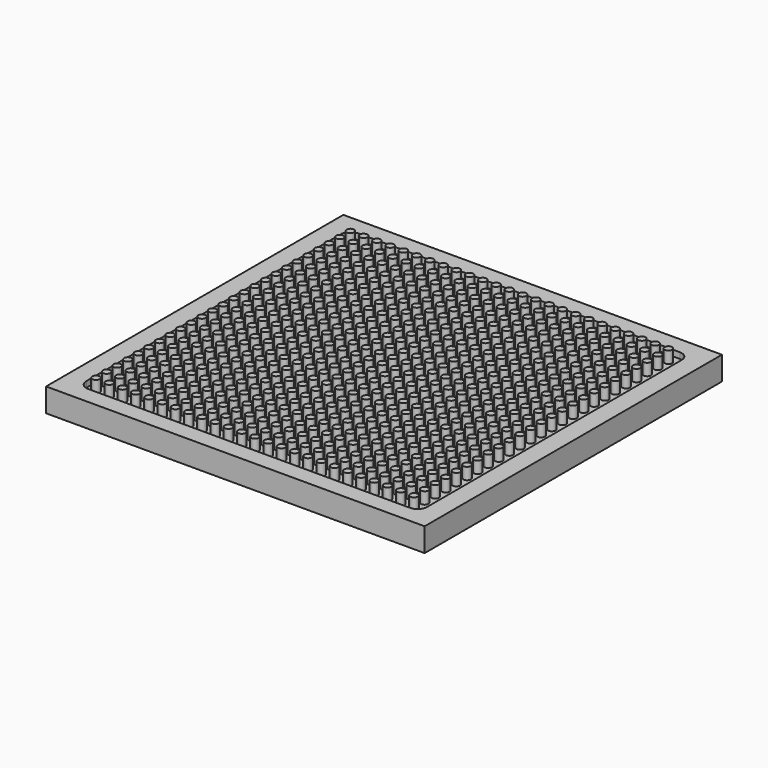
from build123d import *

# Parameters (mm, degrees)
F0_W     = 101.6
F0_H     = 99.727188
F1_DEPTH = 6.35
F3_DEPTH = 1.5875
F4_R     = 1
F5_DEPTH = 3.175


with BuildPart() as f1:
    # F0 (on Top) → F1 (new body)
    with BuildSketch(Plane.XY):
        Rectangle(F0_W, F0_H)
    extrude(amount=F1_DEPTH)

    # F2 (on face) → F3 (cut)
    with BuildSketch(Plane.XY.offset(6.35)):
        with BuildLine():
            ThreePointArc((45.72, 42.706217), (44.976051, 44.502269), (43.18, 45.246217))
            Line((43.18, 45.246217), (-43.18, 45.246217))
            ThreePointArc((-43.18, 45.246217), (-44.976051, 44.502269), (-45.72, 42.706217))
            Line((-45.72, 42.706217), (-45.72, -42.706217))
            ThreePointArc((-45.72, -42.706217), (-44.976051, -44.502269), (-43.18, -45.246217))
            Line((-43.18, -45.246217), (43.18, -45.246217))
            ThreePointArc((43.18, -45.246217), (44.976051, -44.502269), (45.72, -42.706217))
            Line((45.72, -42.706217), (45.72, 42.706217))
        make_face()
    extrude(amount=-F3_DEPTH, mode=Mode.SUBTRACT)

    # F4 (on face) → F5 (join)
    with BuildSketch(Plane.XY.offset(4.7625)):
        with Locations((-43.18, 42.706217)):
            Circle(F4_R)
        with Locations((3.048, 7.146217)):
            Circle(F4_R)
        with Locations((10.16, -42.637783)):
            Circle(F4_R)
        with Locations((17.272, -35.525783)):
            Circle(F4_R)
        with Locations((24.384, -28.413783)):
            Circle(F4_R)
        with Locations((3.048, -42.637783)):
            Circle(F4_R)
        with Locations((10.16, -35.525783)):
            Circle(F4_R)
        with Locations((17.272, -28.413783)):
            Circle(F4_R)
        with Locations((24.384, -21.301783)):
            Circle(F4_R)
        with Locations((42.164, 24.926217)):
            Circle(F4_R)
        with Locations((-36.068, 0.034217)):
            Circle(F4_R)
        with Locations((-28.956, 7.146217)):
            Circle(F4_R)
        with Locations((-14.732, -35.525783)):
            Circle(F4_R)
        with Locations((-21.844, -42.637783)):
            Circle(F4_R)
        with Locations((17.272, 24.926217)):
            Circle(F4_R)
        with Locations((24.384, 32.038217)):
            Circle(F4_R)
        with Locations((35.052, -42.637783)):
            Circle(F4_R)
        with Locations((42.164, -35.525783)):
            Circle(F4_R)
        with Locations((42.164, -42.637783)):
            Circle(F4_R)
        with Locations((-43.18, -14.189783)):
            Circle(F4_R)
        with Locations((-36.068, -7.077783)):
            Circle(F4_R)
        with Locations((-28.956, 0.034217)):
            Circle(F4_R)
        with Locations((-14.732, -42.637783)):
            Circle(F4_R)
        with Locations((24.384, -35.525783)):
            Circle(F4_R)
        with Locations((-4.064, -7.077783)):
            Circle(F4_R)
        with Locations((10.16, 7.146217)):
            Circle(F4_R)
        with Locations((17.272, -42.637783)):
            Circle(F4_R)
        with Locations((-43.18, -21.301783)):
            Circle(F4_R)
        with Locations((-36.068, -14.189783)):
            Circle(F4_R)
        with Locations((-21.844, 0.034217)):
            Circle(F4_R)
        with Locations((-28.956, -7.077783)):
            Circle(F4_R)
        with Locations((-36.068, 39.150217)):
            Circle(F4_R)
        with Locations((-4.064, -14.189783)):
            Circle(F4_R)
        with Locations((3.048, -7.077783)):
            Circle(F4_R)
        with Locations((10.16, 0.034217)):
            Circle(F4_R)
        with Locations((17.272, 7.146217)):
            Circle(F4_R)
        with Locations((24.384, -42.637783)):
            Circle(F4_R)
        with Locations((-43.18, -28.413783)):
            Circle(F4_R)
        with Locations((-36.068, -21.301783)):
            Circle(F4_R)
        with Locations((-21.844, -7.077783)):
            Circle(F4_R)
        with Locations((-28.956, -14.189783)):
            Circle(F4_R)
        with Locations((-4.064, 39.150217)):
            Circle(F4_R)
        with Locations((42.164, 0.034217)):
            Circle(F4_R)
        with Locations((-28.956, 39.150217)):
            Circle(F4_R)
        with Locations((-36.068, 32.038217)):
            Circle(F4_R)
        with Locations((-4.064, -21.301783)):
            Circle(F4_R)
        with Locations((3.048, -14.189783)):
            Circle(F4_R)
        with Locations((10.16, -7.077783)):
            Circle(F4_R)
        with Locations((17.272, 0.034217)):
            Circle(F4_R)
        with Locations((-36.068, -28.413783)):
            Circle(F4_R)
        with Locations((-43.18, -35.525783)):
            Circle(F4_R)
        with Locations((-28.956, -21.301783)):
            Circle(F4_R)
        with Locations((-21.844, -14.189783)):
            Circle(F4_R)
        with Locations((-14.732, -7.077783)):
            Circle(F4_R)
        with Locations((3.048, 39.150217)):
            Circle(F4_R)
        with Locations((-4.064, 32.038217)):
            Circle(F4_R)
        with Locations((42.164, -7.077783)):
            Circle(F4_R)
        with Locations((35.052, -14.189783)):
            Circle(F4_R)
        with Locations((-36.068, 24.926217)):
            Circle(F4_R)
        with Locations((-28.956, 32.038217)):
            Circle(F4_R)
        with Locations((-21.844, 39.150217)):
            Circle(F4_R)
        with Locations((-4.064, -28.413783)):
            Circle(F4_R)
        with Locations((10.16, -14.189783)):
            Circle(F4_R)
        with Locations((3.048, -21.301783)):
            Circle(F4_R)
        with Locations((24.384, 0.034217)):
            Circle(F4_R)
        with Locations((17.272, -7.077783)):
            Circle(F4_R)
        with Locations((-28.956, -28.413783)):
            Circle(F4_R)
        with Locations((-21.844, -21.301783)):
            Circle(F4_R)
        with Locations((-14.732, -14.189783)):
            Circle(F4_R)
        with Locations((3.048, 32.038217)):
            Circle(F4_R)
        with Locations((10.16, 39.150217)):
            Circle(F4_R)
        with Locations((-36.068, -35.525783)):
            Circle(F4_R)
        with Locations((-43.18, -42.637783)):
            Circle(F4_R)
        with Locations((42.164, -14.189783)):
            Circle(F4_R)
        with Locations((35.052, -21.301783)):
            Circle(F4_R)
        with Locations((-14.732, 39.150217)):
            Circle(F4_R)
        with Locations((-21.844, 32.038217)):
            Circle(F4_R)
        with Locations((-4.064, -35.525783)):
            Circle(F4_R)
        with Locations((10.16, -21.301783)):
            Circle(F4_R)
        with Locations((3.048, -28.413783)):
            Circle(F4_R)
        with Locations((24.384, -7.077783)):
            Circle(F4_R)
        with Locations((17.272, -14.189783)):
            Circle(F4_R)
        with Locations((-28.956, 24.926217)):
            Circle(F4_R)
        with Locations((42.164, 39.150217)):
            Circle(F4_R)
        with Locations((-14.732, -21.301783)):
            Circle(F4_R)
        with Locations((3.048, 24.926217)):
            Circle(F4_R)
        with Locations((10.16, 32.038217)):
            Circle(F4_R)
        with Locations((17.272, 39.150217)):
            Circle(F4_R)
        with Locations((42.164, -21.301783)):
            Circle(F4_R)
        with Locations((35.052, -28.413783)):
            Circle(F4_R)
        with Locations((-36.068, -42.637783)):
            Circle(F4_R)
        with Locations((-28.956, -35.525783)):
            Circle(F4_R)
        with Locations((-21.844, -28.413783)):
            Circle(F4_R)
        with Locations((-4.064, -42.637783)):
            Circle(F4_R)
        with Locations((10.16, -28.413783)):
            Circle(F4_R)
        with Locations((3.048, -35.525783)):
            Circle(F4_R)
        with Locations((24.384, -14.189783)):
            Circle(F4_R)
        with Locations((17.272, -21.301783)):
            Circle(F4_R)
        with Locations((42.164, 32.038217)):
            Circle(F4_R)
        with Locations((-21.844, 24.926217)):
            Circle(F4_R)
        with Locations((10.16, 24.926217)):
            Circle(F4_R)
        with Locations((17.272, 32.038217)):
            Circle(F4_R)
        with Locations((24.384, 39.150217)):
            Circle(F4_R)
        with Locations((42.164, -28.413783)):
            Circle(F4_R)
        with Locations((35.052, -35.525783)):
            Circle(F4_R)
        with Locations((-36.068, 7.146217)):
            Circle(F4_R)
        with Locations((-28.956, -42.637783)):
            Circle(F4_R)
        with Locations((-21.844, -35.525783)):
            Circle(F4_R)
        with Locations((-14.732, -28.413783)):
            Circle(F4_R)
        with Locations((-43.18, -7.077783)):
            Circle(F4_R)
        with Locations((-43.18, 32.038217)):
            Circle(F4_R)
        with Locations((-43.18, 24.926217)):
            Circle(F4_R)
        with Locations((-43.18, 0.034217)):
            Circle(F4_R)
        with Locations((-18.288, 42.706217)):
            Circle(F4_R)
        with Locations((-21.844, 10.702217)):
            Circle(F4_R)
        with Locations((-25.4, -21.301783)):
            Circle(F4_R)
        with Locations((-25.4, 35.594217)):
            Circle(F4_R)
        with Locations((-11.176, -7.077783)):
            Circle(F4_R)
        with Locations((-14.732, -39.081783)):
            Circle(F4_R)
        with Locations((-14.732, 17.814217)):
            Circle(F4_R)
        with Locations((-18.288, -14.189783)):
            Circle(F4_R)
        with Locations((-0.508, 32.038217)):
            Circle(F4_R)
        with Locations((-4.064, 0.034217)):
            Circle(F4_R)
        with Locations((-7.62, -31.969783)):
            Circle(F4_R)
        with Locations((-7.62, 24.926217)):
            Circle(F4_R)
        with Locations((6.604, -17.745783)):
            Circle(F4_R)
        with Locations((6.604, 39.150217)):
            Circle(F4_R)
        with Locations((-0.508, -24.857783)):
            Circle(F4_R)
        with Locations((13.716, -10.633783)):
            Circle(F4_R)
        with Locations((10.16, 14.258217)):
            Circle(F4_R)
        with Locations((20.828, -3.521783)):
            Circle(F4_R)
        with Locations((17.272, 21.370217)):
            Circle(F4_R)
        with Locations((31.496, 35.594217)):
            Circle(F4_R)
        with Locations((27.94, 3.590217)):
            Circle(F4_R)
        with Locations((24.384, 28.482217)):
            Circle(F4_R)
        with Locations((-39.624, -35.525783)):
            Circle(F4_R)
        with Locations((-39.624, 21.370217)):
            Circle(F4_R)
        with Locations((-28.956, 3.590217)):
            Circle(F4_R)
        with Locations((-32.512, -28.413783)):
            Circle(F4_R)
        with Locations((-32.512, 28.482217)):
            Circle(F4_R)
        with Locations((-36.068, -3.521783)):
            Circle(F4_R)
        with Locations((38.608, -14.189783)):
            Circle(F4_R)
        with Locations((38.608, 42.706217)):
            Circle(F4_R)
        with Locations((35.052, 10.702217)):
            Circle(F4_R)
        with Locations((31.496, -21.301783)):
            Circle(F4_R)
        with Locations((42.164, -39.081783)):
            Circle(F4_R)
        with Locations((42.164, 17.814217)):
            Circle(F4_R)
        with Locations((-39.624, 28.482217)):
            Circle(F4_R)
        with Locations((-32.512, -21.301783)):
            Circle(F4_R)
        with Locations((-32.512, 35.594217)):
            Circle(F4_R)
        with Locations((-36.068, 3.590217)):
            Circle(F4_R)
        with Locations((-39.624, -28.413783)):
            Circle(F4_R)
        with Locations((-21.844, 17.814217)):
            Circle(F4_R)
        with Locations((-25.4, -14.189783)):
            Circle(F4_R)
        with Locations((-25.4, 42.706217)):
            Circle(F4_R)
        with Locations((-28.956, 10.702217)):
            Circle(F4_R)
        with Locations((-14.732, -31.969783)):
            Circle(F4_R)
        with Locations((-14.732, 24.926217)):
            Circle(F4_R)
        with Locations((-18.288, -7.077783)):
            Circle(F4_R)
        with Locations((-21.844, -39.081783)):
            Circle(F4_R)
        with Locations((-4.064, 7.146217)):
            Circle(F4_R)
        with Locations((-7.62, -24.857783)):
            Circle(F4_R)
        with Locations((-7.62, 32.038217)):
            Circle(F4_R)
        with Locations((-11.176, 0.034217)):
            Circle(F4_R)
        with Locations((3.048, 14.258217)):
            Circle(F4_R)
        with Locations((-0.508, -17.745783)):
            Circle(F4_R)
        with Locations((-0.508, 39.150217)):
            Circle(F4_R)
        with Locations((13.716, -3.521783)):
            Circle(F4_R)
        with Locations((10.16, 21.370217)):
            Circle(F4_R)
        with Locations((6.604, -10.633783)):
            Circle(F4_R)
        with Locations((17.272, 28.482217)):
            Circle(F4_R)
        with Locations((27.94, 10.702217)):
            Circle(F4_R)
        with Locations((24.384, 35.594217)):
            Circle(F4_R)
        with Locations((20.828, 3.590217)):
            Circle(F4_R)
        with Locations((35.052, -39.081783)):
            Circle(F4_R)
        with Locations((35.052, 17.814217)):
            Circle(F4_R)
        with Locations((31.496, -14.189783)):
            Circle(F4_R)
        with Locations((31.496, 42.706217)):
            Circle(F4_R)
        with Locations((42.164, -31.969783)):
            Circle(F4_R)
        with Locations((38.608, -7.077783)):
            Circle(F4_R)
        with Locations((-39.624, 24.926217)):
            Circle(F4_R)
        with Locations((-32.512, -24.857783)):
            Circle(F4_R)
        with Locations((-32.512, 32.038217)):
            Circle(F4_R)
        with Locations((-39.624, -31.969783)):
            Circle(F4_R)
        with Locations((-21.844, 14.258217)):
            Circle(F4_R)
        with Locations((-25.4, -17.745783)):
            Circle(F4_R)
        with Locations((-25.4, 39.150217)):
            Circle(F4_R)
        with Locations((-14.732, 21.370217)):
            Circle(F4_R)
        with Locations((-18.288, -10.633783)):
            Circle(F4_R)
        with Locations((-4.064, 3.590217)):
            Circle(F4_R)
        with Locations((-7.62, -28.413783)):
            Circle(F4_R)
        with Locations((-7.62, 28.482217)):
            Circle(F4_R)
        with Locations((-11.176, -3.521783)):
            Circle(F4_R)
        with Locations((6.604, 42.706217)):
            Circle(F4_R)
        with Locations((3.048, 10.702217)):
            Circle(F4_R)
        with Locations((-0.508, -21.301783)):
            Circle(F4_R)
        with Locations((-0.508, 35.594217)):
            Circle(F4_R)
        with Locations((13.716, -7.077783)):
            Circle(F4_R)
        with Locations((10.16, -39.081783)):
            Circle(F4_R)
        with Locations((10.16, 17.814217)):
            Circle(F4_R)
        with Locations((6.604, -14.189783)):
            Circle(F4_R)
        with Locations((17.272, -31.969783)):
            Circle(F4_R)
        with Locations((27.94, 7.146217)):
            Circle(F4_R)
        with Locations((24.384, -24.857783)):
            Circle(F4_R)
        with Locations((20.828, 0.034217)):
            Circle(F4_R)
        with Locations((35.052, 14.258217)):
            Circle(F4_R)
        with Locations((31.496, -17.745783)):
            Circle(F4_R)
        with Locations((31.496, 39.150217)):
            Circle(F4_R)
        with Locations((42.164, 21.370217)):
            Circle(F4_R)
        with Locations((38.608, -10.633783)):
            Circle(F4_R)
        with Locations((17.272, -39.081783)):
            Circle(F4_R)
        with Locations((17.272, 17.814217)):
            Circle(F4_R)
        with Locations((13.716, -14.189783)):
            Circle(F4_R)
        with Locations((27.94, 0.034217)):
            Circle(F4_R)
        with Locations((24.384, -31.969783)):
            Circle(F4_R)
        with Locations((24.384, 24.926217)):
            Circle(F4_R)
        with Locations((20.828, -7.077783)):
            Circle(F4_R)
        with Locations((38.608, 39.150217)):
            Circle(F4_R)
        with Locations((35.052, 7.146217)):
            Circle(F4_R)
        with Locations((31.496, -24.857783)):
            Circle(F4_R)
        with Locations((31.496, 32.038217)):
            Circle(F4_R)
        with Locations((42.164, 14.258217)):
            Circle(F4_R)
        with Locations((38.608, -17.745783)):
            Circle(F4_R)
        with Locations((-39.624, 17.814217)):
            Circle(F4_R)
        with Locations((-32.512, -31.969783)):
            Circle(F4_R)
        with Locations((-32.512, 24.926217)):
            Circle(F4_R)
        with Locations((-39.624, -39.081783)):
            Circle(F4_R)
        with Locations((-21.844, 7.146217)):
            Circle(F4_R)
        with Locations((-25.4, -24.857783)):
            Circle(F4_R)
        with Locations((-25.4, 32.038217)):
            Circle(F4_R)
        with Locations((-14.732, 14.258217)):
            Circle(F4_R)
        with Locations((-18.288, -17.745783)):
            Circle(F4_R)
        with Locations((-18.288, 39.150217)):
            Circle(F4_R)
        with Locations((-4.064, -3.521783)):
            Circle(F4_R)
        with Locations((-7.62, -35.525783)):
            Circle(F4_R)
        with Locations((-7.62, 21.370217)):
            Circle(F4_R)
        with Locations((-11.176, -10.633783)):
            Circle(F4_R)
        with Locations((6.604, 35.594217)):
            Circle(F4_R)
        with Locations((3.048, 3.590217)):
            Circle(F4_R)
        with Locations((-0.508, -28.413783)):
            Circle(F4_R)
        with Locations((-0.508, 28.482217)):
            Circle(F4_R)
        with Locations((13.716, 42.706217)):
            Circle(F4_R)
        with Locations((10.16, 10.702217)):
            Circle(F4_R)
        with Locations((6.604, -21.301783)):
            Circle(F4_R)
        with Locations((-39.624, 14.258217)):
            Circle(F4_R)
        with Locations((-43.18, -17.745783)):
            Circle(F4_R)
        with Locations((27.94, -3.521783)):
            Circle(F4_R)
        with Locations((24.384, 21.370217)):
            Circle(F4_R)
        with Locations((20.828, -10.633783)):
            Circle(F4_R)
        with Locations((38.608, 35.594217)):
            Circle(F4_R)
        with Locations((35.052, 3.590217)):
            Circle(F4_R)
        with Locations((31.496, -28.413783)):
            Circle(F4_R)
        with Locations((31.496, 28.482217)):
            Circle(F4_R)
        with Locations((42.164, 10.702217)):
            Circle(F4_R)
        with Locations((38.608, -21.301783)):
            Circle(F4_R)
        with Locations((-32.512, -35.525783)):
            Circle(F4_R)
        with Locations((-32.512, 21.370217)):
            Circle(F4_R)
        with Locations((-36.068, -10.633783)):
            Circle(F4_R)
        with Locations((-39.624, -42.637783)):
            Circle(F4_R)
        with Locations((-21.844, 3.590217)):
            Circle(F4_R)
        with Locations((-25.4, -28.413783)):
            Circle(F4_R)
        with Locations((-25.4, 28.482217)):
            Circle(F4_R)
        with Locations((-28.956, -3.521783)):
            Circle(F4_R)
        with Locations((-11.176, 42.706217)):
            Circle(F4_R)
        with Locations((-14.732, 10.702217)):
            Circle(F4_R)
        with Locations((-18.288, -21.301783)):
            Circle(F4_R)
        with Locations((-18.288, 35.594217)):
            Circle(F4_R)
        with Locations((-7.62, -39.081783)):
            Circle(F4_R)
        with Locations((-7.62, 17.814217)):
            Circle(F4_R)
        with Locations((-11.176, -14.189783)):
            Circle(F4_R)
        with Locations((6.604, 32.038217)):
            Circle(F4_R)
        with Locations((3.048, 0.034217)):
            Circle(F4_R)
        with Locations((-0.508, -31.969783)):
            Circle(F4_R)
        with Locations((-0.508, 24.926217)):
            Circle(F4_R)
        with Locations((13.716, 39.150217)):
            Circle(F4_R)
        with Locations((6.604, -24.857783)):
            Circle(F4_R)
        with Locations((17.272, 14.258217)):
            Circle(F4_R)
        with Locations((13.716, -17.745783)):
            Circle(F4_R)
        with Locations((-39.624, 10.702217)):
            Circle(F4_R)
        with Locations((-32.512, -39.081783)):
            Circle(F4_R)
        with Locations((-32.512, 17.814217)):
            Circle(F4_R)
        with Locations((-36.068, 42.706217)):
            Circle(F4_R)
        with Locations((38.608, 32.038217)):
            Circle(F4_R)
        with Locations((35.052, 0.034217)):
            Circle(F4_R)
        with Locations((31.496, -31.969783)):
            Circle(F4_R)
        with Locations((31.496, 24.926217)):
            Circle(F4_R)
        with Locations((42.164, 7.146217)):
            Circle(F4_R)
        with Locations((38.608, -24.857783)):
            Circle(F4_R)
        with Locations((-25.4, -31.969783)):
            Circle(F4_R)
        with Locations((-25.4, 24.926217)):
            Circle(F4_R)
        with Locations((-11.176, 39.150217)):
            Circle(F4_R)
        with Locations((-14.732, 7.146217)):
            Circle(F4_R)
        with Locations((-18.288, -24.857783)):
            Circle(F4_R)
        with Locations((-18.288, 32.038217)):
            Circle(F4_R)
        with Locations((-4.064, -10.633783)):
            Circle(F4_R)
        with Locations((-7.62, -42.637783)):
            Circle(F4_R)
        with Locations((-7.62, 14.258217)):
            Circle(F4_R)
        with Locations((-11.176, -17.745783)):
            Circle(F4_R)
        with Locations((6.604, 28.482217)):
            Circle(F4_R)
        with Locations((3.048, -3.521783)):
            Circle(F4_R)
        with Locations((-0.508, -35.525783)):
            Circle(F4_R)
        with Locations((-0.508, 21.370217)):
            Circle(F4_R)
        with Locations((13.716, 35.594217)):
            Circle(F4_R)
        with Locations((10.16, 3.590217)):
            Circle(F4_R)
        with Locations((6.604, -28.413783)):
            Circle(F4_R)
        with Locations((20.828, 42.706217)):
            Circle(F4_R)
        with Locations((17.272, 10.702217)):
            Circle(F4_R)
        with Locations((13.716, -21.301783)):
            Circle(F4_R)
        with Locations((27.94, -7.077783)):
            Circle(F4_R)
        with Locations((24.384, -39.081783)):
            Circle(F4_R)
        with Locations((24.384, 17.814217)):
            Circle(F4_R)
        with Locations((20.828, -14.189783)):
            Circle(F4_R)
        with Locations((-39.624, 7.146217)):
            Circle(F4_R)
        with Locations((-43.18, -24.857783)):
            Circle(F4_R)
        with Locations((-32.512, -42.637783)):
            Circle(F4_R)
        with Locations((-32.512, 14.258217)):
            Circle(F4_R)
        with Locations((-36.068, -17.745783)):
            Circle(F4_R)
        with Locations((-21.844, -3.521783)):
            Circle(F4_R)
        with Locations((-25.4, -35.525783)):
            Circle(F4_R)
        with Locations((-25.4, 21.370217)):
            Circle(F4_R)
        with Locations((-28.956, -10.633783)):
            Circle(F4_R)
        with Locations((42.164, 3.590217)):
            Circle(F4_R)
        with Locations((38.608, -28.413783)):
            Circle(F4_R)
        with Locations((-11.176, 35.594217)):
            Circle(F4_R)
        with Locations((-14.732, 3.590217)):
            Circle(F4_R)
        with Locations((-18.288, -28.413783)):
            Circle(F4_R)
        with Locations((-18.288, 28.482217)):
            Circle(F4_R)
        with Locations((-4.064, 42.706217)):
            Circle(F4_R)
        with Locations((-7.62, 10.702217)):
            Circle(F4_R)
        with Locations((-11.176, -21.301783)):
            Circle(F4_R)
        with Locations((6.604, 24.926217)):
            Circle(F4_R)
        with Locations((-0.508, -39.081783)):
            Circle(F4_R)
        with Locations((-0.508, 17.814217)):
            Circle(F4_R)
        with Locations((13.716, 32.038217)):
            Circle(F4_R)
        with Locations((6.604, -31.969783)):
            Circle(F4_R)
        with Locations((20.828, 39.150217)):
            Circle(F4_R)
        with Locations((13.716, -24.857783)):
            Circle(F4_R)
        with Locations((27.94, -10.633783)):
            Circle(F4_R)
        with Locations((24.384, 14.258217)):
            Circle(F4_R)
        with Locations((20.828, -17.745783)):
            Circle(F4_R)
        with Locations((38.608, 28.482217)):
            Circle(F4_R)
        with Locations((35.052, -3.521783)):
            Circle(F4_R)
        with Locations((31.496, -35.525783)):
            Circle(F4_R)
        with Locations((31.496, 21.370217)):
            Circle(F4_R)
        with Locations((-39.624, 3.590217)):
            Circle(F4_R)
        with Locations((-28.956, 42.706217)):
            Circle(F4_R)
        with Locations((-32.512, 10.702217)):
            Circle(F4_R)
        with Locations((-36.068, 35.594217)):
            Circle(F4_R)
        with Locations((-25.4, -39.081783)):
            Circle(F4_R)
        with Locations((-25.4, 17.814217)):
            Circle(F4_R)
        with Locations((-11.176, 32.038217)):
            Circle(F4_R)
        with Locations((-14.732, 0.034217)):
            Circle(F4_R)
        with Locations((-18.288, -31.969783)):
            Circle(F4_R)
        with Locations((-18.288, 24.926217)):
            Circle(F4_R)
        with Locations((-4.064, -17.745783)):
            Circle(F4_R)
        with Locations((-7.62, 7.146217)):
            Circle(F4_R)
        with Locations((-11.176, -24.857783)):
            Circle(F4_R)
        with Locations((6.604, 21.370217)):
            Circle(F4_R)
        with Locations((3.048, -10.633783)):
            Circle(F4_R)
        with Locations((-0.508, -42.637783)):
            Circle(F4_R)
        with Locations((-0.508, 14.258217)):
            Circle(F4_R)
        with Locations((13.716, 28.482217)):
            Circle(F4_R)
        with Locations((10.16, -3.521783)):
            Circle(F4_R)
        with Locations((6.604, -35.525783)):
            Circle(F4_R)
        with Locations((20.828, 35.594217)):
            Circle(F4_R)
        with Locations((17.272, 3.590217)):
            Circle(F4_R)
        with Locations((13.716, -28.413783)):
            Circle(F4_R)
        with Locations((27.94, -14.189783)):
            Circle(F4_R)
        with Locations((27.94, 42.706217)):
            Circle(F4_R)
        with Locations((24.384, 10.702217)):
            Circle(F4_R)
        with Locations((20.828, -21.301783)):
            Circle(F4_R)
        with Locations((38.608, 24.926217)):
            Circle(F4_R)
        with Locations((35.052, -7.077783)):
            Circle(F4_R)
        with Locations((31.496, -39.081783)):
            Circle(F4_R)
        with Locations((31.496, 17.814217)):
            Circle(F4_R)
        with Locations((38.608, -31.969783)):
            Circle(F4_R)
        with Locations((-39.624, 0.034217)):
            Circle(F4_R)
        with Locations((-43.18, -31.969783)):
            Circle(F4_R)
        with Locations((-32.512, 7.146217)):
            Circle(F4_R)
        with Locations((-36.068, -24.857783)):
            Circle(F4_R)
        with Locations((-21.844, -10.633783)):
            Circle(F4_R)
        with Locations((-25.4, -42.637783)):
            Circle(F4_R)
        with Locations((-25.4, 14.258217)):
            Circle(F4_R)
        with Locations((-28.956, -17.745783)):
            Circle(F4_R)
        with Locations((-11.176, 28.482217)):
            Circle(F4_R)
        with Locations((-14.732, -3.521783)):
            Circle(F4_R)
        with Locations((-18.288, -35.525783)):
            Circle(F4_R)
        with Locations((-18.288, 21.370217)):
            Circle(F4_R)
        with Locations((-4.064, 35.594217)):
            Circle(F4_R)
        with Locations((-7.62, 3.590217)):
            Circle(F4_R)
        with Locations((-11.176, -28.413783)):
            Circle(F4_R)
        with Locations((6.604, 17.814217)):
            Circle(F4_R)
        with Locations((3.048, 42.706217)):
            Circle(F4_R)
        with Locations((-0.508, 10.702217)):
            Circle(F4_R)
        with Locations((13.716, 24.926217)):
            Circle(F4_R)
        with Locations((6.604, -39.081783)):
            Circle(F4_R)
        with Locations((20.828, 32.038217)):
            Circle(F4_R)
        with Locations((13.716, -31.969783)):
            Circle(F4_R)
        with Locations((27.94, -17.745783)):
            Circle(F4_R)
        with Locations((27.94, 39.150217)):
            Circle(F4_R)
        with Locations((24.384, 7.146217)):
            Circle(F4_R)
        with Locations((20.828, -24.857783)):
            Circle(F4_R)
        with Locations((38.608, 21.370217)):
            Circle(F4_R)
        with Locations((35.052, -10.633783)):
            Circle(F4_R)
        with Locations((31.496, -42.637783)):
            Circle(F4_R)
        with Locations((31.496, 14.258217)):
            Circle(F4_R)
        with Locations((42.164, -3.521783)):
            Circle(F4_R)
        with Locations((38.608, -35.525783)):
            Circle(F4_R)
        with Locations((-36.068, 28.482217)):
            Circle(F4_R)
        with Locations((-39.624, -3.521783)):
            Circle(F4_R)
        with Locations((-25.4, 10.702217)):
            Circle(F4_R)
        with Locations((-28.956, 35.594217)):
            Circle(F4_R)
        with Locations((-32.512, 3.590217)):
            Circle(F4_R)
        with Locations((-18.288, -39.081783)):
            Circle(F4_R)
        with Locations((-18.288, 17.814217)):
            Circle(F4_R)
        with Locations((-21.844, 42.706217)):
            Circle(F4_R)
        with Locations((-7.62, 0.034217)):
            Circle(F4_R)
        with Locations((-11.176, -31.969783)):
            Circle(F4_R)
        with Locations((-11.176, 24.926217)):
            Circle(F4_R)
        with Locations((-0.508, 7.146217)):
            Circle(F4_R)
        with Locations((-4.064, -24.857783)):
            Circle(F4_R)
        with Locations((10.16, -10.633783)):
            Circle(F4_R)
        with Locations((6.604, -42.637783)):
            Circle(F4_R)
        with Locations((6.604, 14.258217)):
            Circle(F4_R)
        with Locations((3.048, -17.745783)):
            Circle(F4_R)
        with Locations((13.716, 21.370217)):
            Circle(F4_R)
        with Locations((13.716, -35.525783)):
            Circle(F4_R)
        with Locations((24.384, 3.590217)):
            Circle(F4_R)
        with Locations((20.828, -28.413783)):
            Circle(F4_R)
        with Locations((20.828, 28.482217)):
            Circle(F4_R)
        with Locations((17.272, -3.521783)):
            Circle(F4_R)
        with Locations((35.052, 42.706217)):
            Circle(F4_R)
        with Locations((31.496, 10.702217)):
            Circle(F4_R)
        with Locations((27.94, -21.301783)):
            Circle(F4_R)
        with Locations((27.94, 35.594217)):
            Circle(F4_R)
        with Locations((38.608, -39.081783)):
            Circle(F4_R)
        with Locations((38.608, 17.814217)):
            Circle(F4_R)
        with Locations((-36.068, -31.969783)):
            Circle(F4_R)
        with Locations((-39.624, -7.077783)):
            Circle(F4_R)
        with Locations((-43.18, -39.081783)):
            Circle(F4_R)
        with Locations((-25.4, 7.146217)):
            Circle(F4_R)
        with Locations((-28.956, -24.857783)):
            Circle(F4_R)
        with Locations((-32.512, 0.034217)):
            Circle(F4_R)
        with Locations((-18.288, -42.637783)):
            Circle(F4_R)
        with Locations((-18.288, 14.258217)):
            Circle(F4_R)
        with Locations((-21.844, -17.745783)):
            Circle(F4_R)
        with Locations((-7.62, -3.521783)):
            Circle(F4_R)
        with Locations((-11.176, -35.525783)):
            Circle(F4_R)
        with Locations((-11.176, 21.370217)):
            Circle(F4_R)
        with Locations((-14.732, -10.633783)):
            Circle(F4_R)
        with Locations((3.048, 35.594217)):
            Circle(F4_R)
        with Locations((-0.508, 3.590217)):
            Circle(F4_R)
        with Locations((-4.064, 28.482217)):
            Circle(F4_R)
        with Locations((10.16, 42.706217)):
            Circle(F4_R)
        with Locations((6.604, 10.702217)):
            Circle(F4_R)
        with Locations((13.716, 17.814217)):
            Circle(F4_R)
        with Locations((13.716, -39.081783)):
            Circle(F4_R)
        with Locations((20.828, -31.969783)):
            Circle(F4_R)
        with Locations((20.828, 24.926217)):
            Circle(F4_R)
        with Locations((35.052, 39.150217)):
            Circle(F4_R)
        with Locations((31.496, 7.146217)):
            Circle(F4_R)
        with Locations((27.94, -24.857783)):
            Circle(F4_R)
        with Locations((27.94, 32.038217)):
            Circle(F4_R)
        with Locations((42.164, -10.633783)):
            Circle(F4_R)
        with Locations((38.608, -42.637783)):
            Circle(F4_R)
        with Locations((38.608, 14.258217)):
            Circle(F4_R)
        with Locations((35.052, -17.745783)):
            Circle(F4_R)
        with Locations((-25.4, 3.590217)):
            Circle(F4_R)
        with Locations((-28.956, 28.482217)):
            Circle(F4_R)
        with Locations((-32.512, -3.521783)):
            Circle(F4_R)
        with Locations((-14.732, 42.706217)):
            Circle(F4_R)
        with Locations((-18.288, 10.702217)):
            Circle(F4_R)
        with Locations((-21.844, 35.594217)):
            Circle(F4_R)
        with Locations((-7.62, -7.077783)):
            Circle(F4_R)
        with Locations((-11.176, -39.081783)):
            Circle(F4_R)
        with Locations((-11.176, 17.814217)):
            Circle(F4_R)
        with Locations((-0.508, 0.034217)):
            Circle(F4_R)
        with Locations((-4.064, -31.969783)):
            Circle(F4_R)
        with Locations((-4.064, 24.926217)):
            Circle(F4_R)
        with Locations((10.16, -17.745783)):
            Circle(F4_R)
        with Locations((6.604, 7.146217)):
            Circle(F4_R)
        with Locations((3.048, -24.857783)):
            Circle(F4_R)
        with Locations((13.716, 14.258217)):
            Circle(F4_R)
        with Locations((13.716, -42.637783)):
            Circle(F4_R)
        with Locations((24.384, -3.521783)):
            Circle(F4_R)
        with Locations((20.828, -35.525783)):
            Circle(F4_R)
        with Locations((20.828, 21.370217)):
            Circle(F4_R)
        with Locations((17.272, -10.633783)):
            Circle(F4_R)
        with Locations((-36.068, 21.370217)):
            Circle(F4_R)
        with Locations((-39.624, -10.633783)):
            Circle(F4_R)
        with Locations((35.052, 35.594217)):
            Circle(F4_R)
        with Locations((31.496, 3.590217)):
            Circle(F4_R)
        with Locations((27.94, -28.413783)):
            Circle(F4_R)
        with Locations((27.94, 28.482217)):
            Circle(F4_R)
        with Locations((42.164, 42.706217)):
            Circle(F4_R)
        with Locations((38.608, 10.702217)):
            Circle(F4_R)
        with Locations((-18.288, 7.146217)):
            Circle(F4_R)
        with Locations((-21.844, -24.857783)):
            Circle(F4_R)
        with Locations((-7.62, -10.633783)):
            Circle(F4_R)
        with Locations((-11.176, -42.637783)):
            Circle(F4_R)
        with Locations((-11.176, 14.258217)):
            Circle(F4_R)
        with Locations((-14.732, -17.745783)):
            Circle(F4_R)
        with Locations((3.048, 28.482217)):
            Circle(F4_R)
        with Locations((-0.508, -3.521783)):
            Circle(F4_R)
        with Locations((-4.064, 21.370217)):
            Circle(F4_R)
        with Locations((10.16, 35.594217)):
            Circle(F4_R)
        with Locations((6.604, 3.590217)):
            Circle(F4_R)
        with Locations((13.716, 10.702217)):
            Circle(F4_R)
        with Locations((17.272, 42.706217)):
            Circle(F4_R)
        with Locations((20.828, -39.081783)):
            Circle(F4_R)
        with Locations((20.828, 17.814217)):
            Circle(F4_R)
        with Locations((35.052, 32.038217)):
            Circle(F4_R)
        with Locations((31.496, 0.034217)):
            Circle(F4_R)
        with Locations((27.94, -31.969783)):
            Circle(F4_R)
        with Locations((27.94, 24.926217)):
            Circle(F4_R)
        with Locations((-36.068, -39.081783)):
            Circle(F4_R)
        with Locations((-36.068, 17.814217)):
            Circle(F4_R)
        with Locations((-39.624, -14.189783)):
            Circle(F4_R)
        with Locations((-25.4, 0.034217)):
            Circle(F4_R)
        with Locations((-28.956, -31.969783)):
            Circle(F4_R)
        with Locations((-32.512, -7.077783)):
            Circle(F4_R)
        with Locations((42.164, -17.745783)):
            Circle(F4_R)
        with Locations((38.608, 7.146217)):
            Circle(F4_R)
        with Locations((35.052, -24.857783)):
            Circle(F4_R)
        with Locations((-7.62, -14.189783)):
            Circle(F4_R)
        with Locations((-7.62, 42.706217)):
            Circle(F4_R)
        with Locations((-11.176, 10.702217)):
            Circle(F4_R)
        with Locations((-0.508, -7.077783)):
            Circle(F4_R)
        with Locations((-4.064, -39.081783)):
            Circle(F4_R)
        with Locations((-4.064, 17.814217)):
            Circle(F4_R)
        with Locations((10.16, -24.857783)):
            Circle(F4_R)
        with Locations((6.604, 0.034217)):
            Circle(F4_R)
        with Locations((3.048, -31.969783)):
            Circle(F4_R)
        with Locations((13.716, 7.146217)):
            Circle(F4_R)
        with Locations((24.384, -10.633783)):
            Circle(F4_R)
        with Locations((20.828, -42.637783)):
            Circle(F4_R)
        with Locations((20.828, 14.258217)):
            Circle(F4_R)
        with Locations((17.272, -17.745783)):
            Circle(F4_R)
        with Locations((35.052, 28.482217)):
            Circle(F4_R)
        with Locations((31.496, -3.521783)):
            Circle(F4_R)
        with Locations((27.94, -35.525783)):
            Circle(F4_R)
        with Locations((27.94, 21.370217)):
            Circle(F4_R)
        with Locations((42.164, 35.594217)):
            Circle(F4_R)
        with Locations((38.608, 3.590217)):
            Circle(F4_R)
        with Locations((-36.068, 14.258217)):
            Circle(F4_R)
        with Locations((-39.624, -17.745783)):
            Circle(F4_R)
        with Locations((-39.624, 39.150217)):
            Circle(F4_R)
        with Locations((-25.4, -3.521783)):
            Circle(F4_R)
        with Locations((-28.956, 21.370217)):
            Circle(F4_R)
        with Locations((-32.512, -10.633783)):
            Circle(F4_R)
        with Locations((-14.732, 35.594217)):
            Circle(F4_R)
        with Locations((-18.288, 3.590217)):
            Circle(F4_R)
        with Locations((-21.844, 28.482217)):
            Circle(F4_R)
        with Locations((3.048, 21.370217)):
            Circle(F4_R)
        with Locations((-0.508, -10.633783)):
            Circle(F4_R)
        with Locations((-4.064, 14.258217)):
            Circle(F4_R)
        with Locations((10.16, 28.482217)):
            Circle(F4_R)
        with Locations((6.604, -3.521783)):
            Circle(F4_R)
        with Locations((13.716, 3.590217)):
            Circle(F4_R)
        with Locations((17.272, 35.594217)):
            Circle(F4_R)
        with Locations((24.384, 42.706217)):
            Circle(F4_R)
        with Locations((20.828, 10.702217)):
            Circle(F4_R)
        with Locations((35.052, 24.926217)):
            Circle(F4_R)
        with Locations((31.496, -7.077783)):
            Circle(F4_R)
        with Locations((27.94, -39.081783)):
            Circle(F4_R)
        with Locations((27.94, 17.814217)):
            Circle(F4_R)
        with Locations((42.164, -24.857783)):
            Circle(F4_R)
        with Locations((38.608, 0.034217)):
            Circle(F4_R)
        with Locations((35.052, -31.969783)):
            Circle(F4_R)
        with Locations((-32.512, 42.706217)):
            Circle(F4_R)
        with Locations((-36.068, 10.702217)):
            Circle(F4_R)
        with Locations((-39.624, -21.301783)):
            Circle(F4_R)
        with Locations((-39.624, 35.594217)):
            Circle(F4_R)
        with Locations((-25.4, -7.077783)):
            Circle(F4_R)
        with Locations((-28.956, -39.081783)):
            Circle(F4_R)
        with Locations((-28.956, 17.814217)):
            Circle(F4_R)
        with Locations((-32.512, -14.189783)):
            Circle(F4_R)
        with Locations((-14.732, 32.038217)):
            Circle(F4_R)
        with Locations((-18.288, 0.034217)):
            Circle(F4_R)
        with Locations((-21.844, -31.969783)):
            Circle(F4_R)
        with Locations((-7.62, -17.745783)):
            Circle(F4_R)
        with Locations((-7.62, 39.150217)):
            Circle(F4_R)
        with Locations((-11.176, 7.146217)):
            Circle(F4_R)
        with Locations((-14.732, -24.857783)):
            Circle(F4_R)
        with Locations((10.16, -31.969783)):
            Circle(F4_R)
        with Locations((6.604, -7.077783)):
            Circle(F4_R)
        with Locations((3.048, -39.081783)):
            Circle(F4_R)
        with Locations((13.716, 0.034217)):
            Circle(F4_R)
        with Locations((24.384, -17.745783)):
            Circle(F4_R)
        with Locations((20.828, 7.146217)):
            Circle(F4_R)
        with Locations((17.272, -24.857783)):
            Circle(F4_R)
        with Locations((35.052, 21.370217)):
            Circle(F4_R)
        with Locations((31.496, -10.633783)):
            Circle(F4_R)
        with Locations((27.94, -42.637783)):
            Circle(F4_R)
        with Locations((27.94, 14.258217)):
            Circle(F4_R)
        with Locations((42.164, 28.482217)):
            Circle(F4_R)
        with Locations((38.608, -3.521783)):
            Circle(F4_R)
        with Locations((-32.512, 39.150217)):
            Circle(F4_R)
        with Locations((-39.624, -24.857783)):
            Circle(F4_R)
        with Locations((-39.624, 32.038217)):
            Circle(F4_R)
        with Locations((-25.4, -10.633783)):
            Circle(F4_R)
        with Locations((-28.956, 14.258217)):
            Circle(F4_R)
        with Locations((-32.512, -17.745783)):
            Circle(F4_R)
        with Locations((-14.732, 28.482217)):
            Circle(F4_R)
        with Locations((-18.288, -3.521783)):
            Circle(F4_R)
        with Locations((-21.844, 21.370217)):
            Circle(F4_R)
        with Locations((-7.62, -21.301783)):
            Circle(F4_R)
        with Locations((-7.62, 35.594217)):
            Circle(F4_R)
        with Locations((-11.176, 3.590217)):
            Circle(F4_R)
        with Locations((3.048, 17.814217)):
            Circle(F4_R)
        with Locations((-0.508, -14.189783)):
            Circle(F4_R)
        with Locations((-0.508, 42.706217)):
            Circle(F4_R)
        with Locations((-4.064, 10.702217)):
            Circle(F4_R)
        with Locations((-43.18, -10.633783)):
            Circle(F4_R)
        with Locations((-43.18, -3.521783)):
            Circle(F4_R)
        with Locations((-43.18, 35.594217)):
            Circle(F4_R)
        with Locations((-43.18, 28.482217)):
            Circle(F4_R)
        with Locations((-43.18, 21.370217)):
            Circle(F4_R)
        with Locations((-43.18, 17.814217)):
            Circle(F4_R)
        with Locations((-43.18, 14.258217)):
            Circle(F4_R)
        with Locations((-43.18, 10.702217)):
            Circle(F4_R)
        with Locations((-43.18, 7.146217)):
            Circle(F4_R)
        with Locations((-43.18, 3.590217)):
            Circle(F4_R)
        with Locations((-39.624, 42.706217)):
            Circle(F4_R)
        with Locations((-43.18, 39.150217)):
            Circle(F4_R)
    extrude(amount=F5_DEPTH)


solid = f1.part
